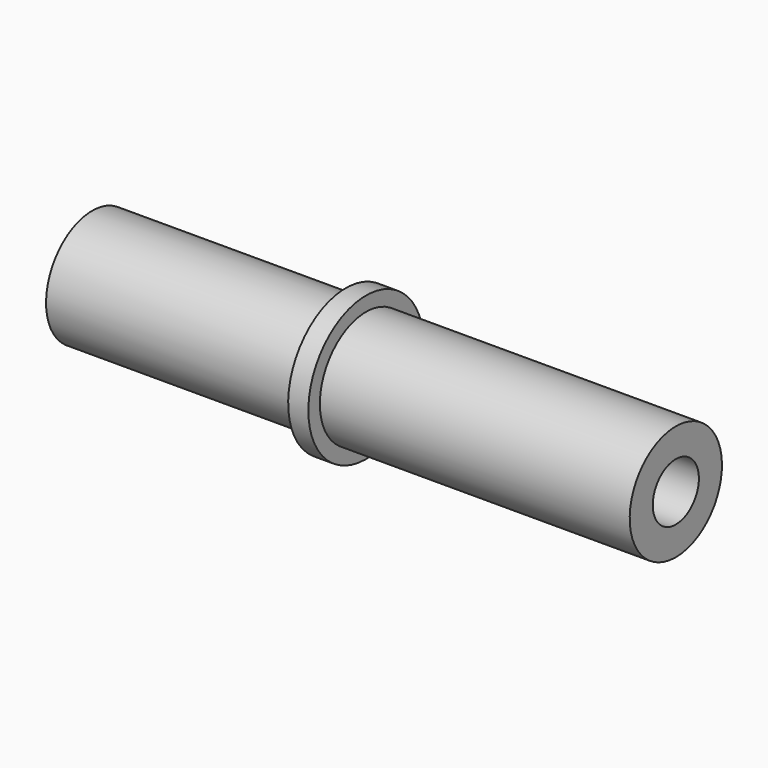
from build123d import *

# Parameters (mm, degrees)
CYLINDER145_R     = 2
CYLINDER145_DEPTH = 47.8
CYLINDER106_R     = 5
CYLINDER106_DEPTH = 1.4
CYLINDER093_R     = 4
CYLINDER093_DEPTH = 40.5


with BuildPart() as cylinder145:
    # Cylinder145 → Cylinder145 (new body)
    with BuildSketch(Plane(origin=(-125, -82, 10), x_dir=(0, 0, -1), z_dir=(1, 0, 0))):
        Circle(CYLINDER145_R)
    extrude(amount=CYLINDER145_DEPTH)


with BuildPart() as cylinder106:
    # Cylinder106 → Cylinder106 (new body)
    with BuildSketch(Plane(origin=(-107.4, -82, 10), x_dir=(0, 0, -1), z_dir=(1, 0, 0))):
        Circle(CYLINDER106_R)
    extrude(amount=CYLINDER106_DEPTH)


with BuildPart() as cut098:
    # Cylinder093 → Cylinder093 (new body)
    with BuildSketch(Plane(origin=(-125, -82, 10), x_dir=(0, 0, -1), z_dir=(1, 0, 0))):
        Circle(CYLINDER093_R)
    extrude(amount=CYLINDER093_DEPTH)

    # Fusion144: union Cylinder106
    add(cylinder106.part)

    # Cut098: cut Cylinder145
    add(cylinder145.part, mode=Mode.SUBTRACT)


with BuildPart() as cut098_1:
    # Cut098 placement: moved
    add(cut098.part.moved(Location((4, 10, 0))))


solid = cut098_1.part
